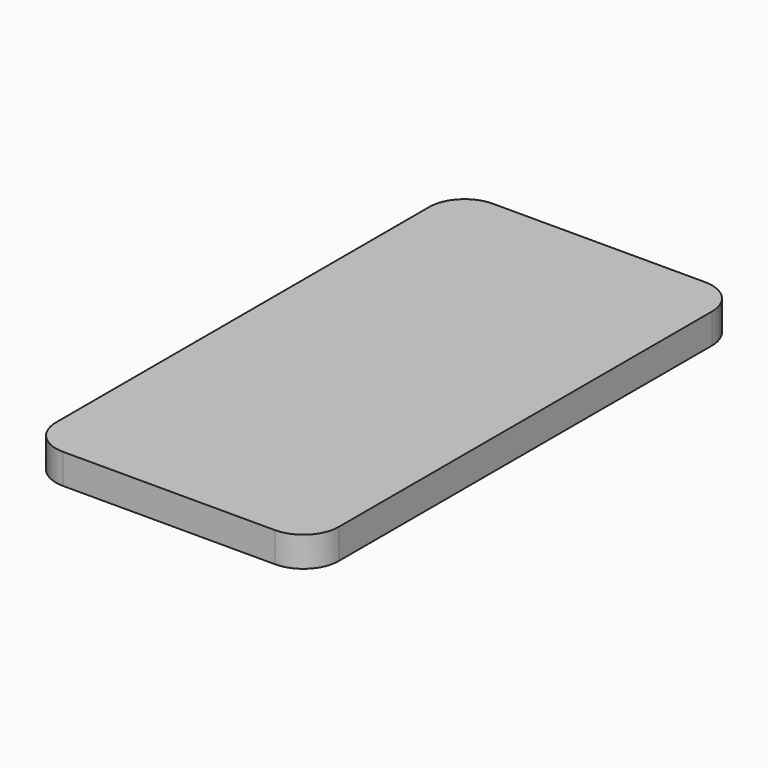
from build123d import *

# Parameters (mm, degrees)
F0_W     = 80
F0_H     = 152
F1_DEPTH = 10.5
F2_R     = 10
F3_SIZE2 = 2
F3_SIZE  = 10


with BuildPart() as f1:
    # F0 (on Top) → F1 (new body)
    with BuildSketch(Plane.XY):
        Rectangle(F0_W, F0_H)
    extrude(amount=F1_DEPTH)

    # F2
    f2_edges = [f1.edges().sort_by_distance(p)[0] for p in [
        (-40, 76, 5.25),
        (40, 76, 5.25),
        (40, -76, 5.25),
        (-40, -76, 5.25),
    ]]
    fillet(f2_edges, radius=F2_R)

    # F3
    f3_edges = [f1.edges().sort_by_distance(p)[0] for p in [
        (0, 76, 0),
    ]]
    chamfer(f3_edges, length=F3_SIZE, length2=F3_SIZE2)


solid = f1.part
